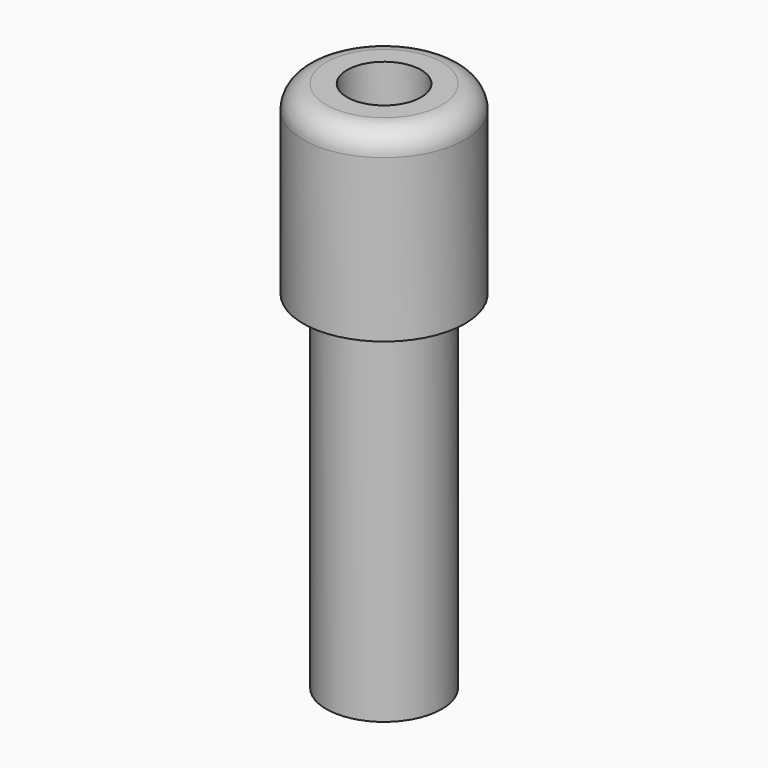
from build123d import *

# Parameters (mm, degrees)
CYLINDER001_R     = 1.6
CYLINDER001_DEPTH = 4
CYLINDER002_R     = 2.5
CYLINDER002_DEPTH = 16
CYLINDER_R        = 3.5
CYLINDER_DEPTH    = 8
FILLET_R          = 1


with BuildPart() as hole:
    # Cylinder001 → Cylinder001 (new body)
    with BuildSketch(Plane.XY.offset(6)):
        Circle(CYLINDER001_R)
    extrude(amount=CYLINDER001_DEPTH)


with BuildPart() as thread:
    # Cylinder002 → Cylinder002 (new body)
    with BuildSketch(Plane.XY.offset(-15)):
        Circle(CYLINDER002_R)
    extrude(amount=CYLINDER002_DEPTH)


with BuildPart() as obj1:
    # Cylinder → Cylinder (new body)
    with BuildSketch(Plane.XY):
        Circle(CYLINDER_R)
    extrude(amount=CYLINDER_DEPTH)

    # Fusion: union thread
    add(thread.part)

    # Cut: cut hole
    add(hole.part, mode=Mode.SUBTRACT)

    # Fillet
    fillet_edges = [obj1.edges().sort_by_distance(p)[0] for p in [
        (-3.5, 0, 8),
    ]]
    fillet(fillet_edges, radius=FILLET_R)


solid = obj1.part
